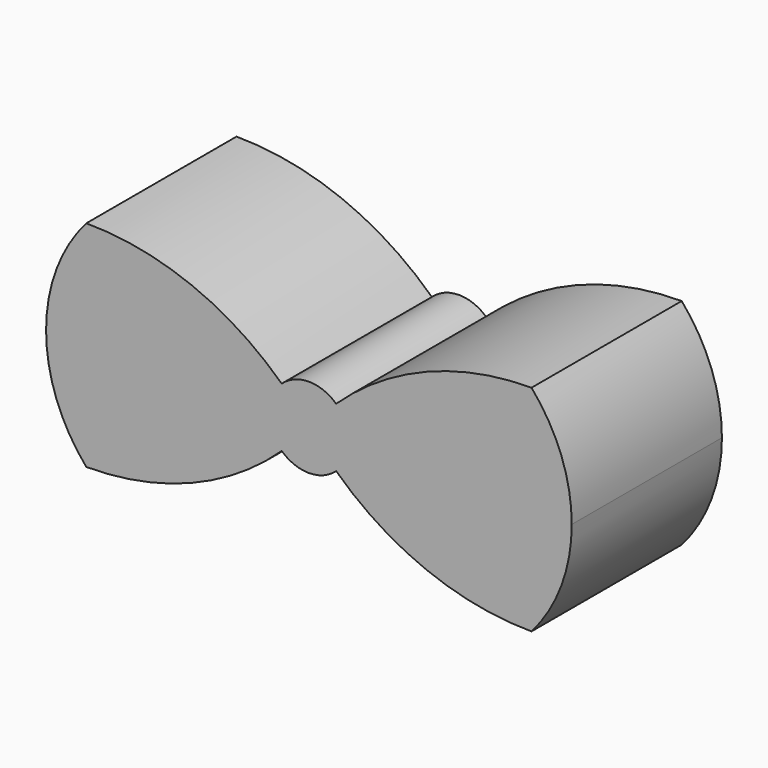
from build123d import *

# Parameters (mm, degrees)
F1_DEPTH = 1.778


with BuildPart() as f1:
    # F0 (on Front) → F1 (new body)
    with BuildSketch(Plane.XZ):
        with BuildLine():
            ThreePointArc((-0.2578487076, 1.29649072), (-1.1126130115, 1.8413821028), (-2.1082, 2.032))
            Line((-2.1082, 2.032), (-2.1082, 1.016))
            Line((-2.1082, 1.016), (-2.1082, 0))
            ThreePointArc((-2.1082, 0), (-1.1126130115, 0.1906178972), (-0.2578487076, 0.73550928))
            ThreePointArc((-0.2578487076, 0.73550928), (-0.381, 1.016), (-0.2578487076, 1.29649072))
        make_face()
        with BuildLine():
            Line((-2.1082, 1.016), (-2.1082, 2.032))
            ThreePointArc((-2.1082, 2.032), (-2.3908179675, 1.5585442378), (-2.4892, 1.016))
            Line((-2.4892, 1.016), (-2.1082, 1.016))
        make_face()
        with BuildLine():
            Line((-2.1082, 0), (-2.1082, 1.016))
            Line((-2.1082, 1.016), (-2.4892, 1.016))
            ThreePointArc((-2.4892, 1.016), (-2.3908179675, 0.4734557622), (-2.1082, 0))
        make_face()
        with BuildLine():
            ThreePointArc((0, 1.016), (-0.1239618982, 1.160807232), (-0.2578487076, 1.29649072))
            ThreePointArc((-0.2578487076, 1.29649072), (-0.381, 1.016), (-0.2578487076, 0.73550928))
            ThreePointArc((-0.2578487076, 0.73550928), (-0.1239618982, 0.871192768), (0, 1.016))
        make_face()
        with BuildLine():
            ThreePointArc((0.2578487076, 1.29649072), (0, 1.397), (-0.2578487076, 1.29649072))
            ThreePointArc((-0.2578487076, 1.29649072), (-0.1239618982, 1.160807232), (0, 1.016))
            ThreePointArc((0, 1.016), (0.1239618982, 1.160807232), (0.2578487076, 1.29649072))
        make_face()
        with BuildLine():
            ThreePointArc((2.1082, 2.032), (1.1126130115, 1.8413821028), (0.2578487076, 1.29649072))
            ThreePointArc((0.2578487076, 1.29649072), (0.3488562437, 1.1691676246), (0.381, 1.016))
            ThreePointArc((0.381, 1.016), (0.3488562437, 0.8628323754), (0.2578487076, 0.73550928))
            ThreePointArc((0.2578487076, 0.73550928), (1.1126130115, 0.1906178972), (2.1082, 0))
            Line((2.1082, 0), (2.1082, 1.016))
            Line((2.1082, 1.016), (2.1082, 2.032))
        make_face()
        with BuildLine():
            ThreePointArc((0.381, 1.016), (0.3488562437, 1.1691676246), (0.2578487076, 1.29649072))
            ThreePointArc((0.2578487076, 1.29649072), (0.1239618982, 1.160807232), (0, 1.016))
            ThreePointArc((0, 1.016), (0.1239618982, 0.871192768), (0.2578487076, 0.73550928))
            ThreePointArc((0.2578487076, 0.73550928), (0.3488562437, 0.8628323754), (0.381, 1.016))
        make_face()
        with BuildLine():
            ThreePointArc((0, 1.016), (-0.1239618982, 0.871192768), (-0.2578487076, 0.73550928))
            ThreePointArc((-0.2578487076, 0.73550928), (0, 0.635), (0.2578487076, 0.73550928))
            ThreePointArc((0.2578487076, 0.73550928), (0.1239618982, 0.871192768), (0, 1.016))
        make_face()
        with BuildLine():
            ThreePointArc((2.4892, 1.016), (2.3908179675, 1.5585442378), (2.1082, 2.032))
            Line((2.1082, 2.032), (2.1082, 1.016))
            Line((2.1082, 1.016), (2.4892, 1.016))
        make_face()
        with BuildLine():
            Line((2.4892, 1.016), (2.1082, 1.016))
            Line((2.1082, 1.016), (2.1082, 0))
            ThreePointArc((2.1082, 0), (2.3908179675, 0.4734557622), (2.4892, 1.016))
        make_face()
    extrude(amount=F1_DEPTH)


solid = f1.part
